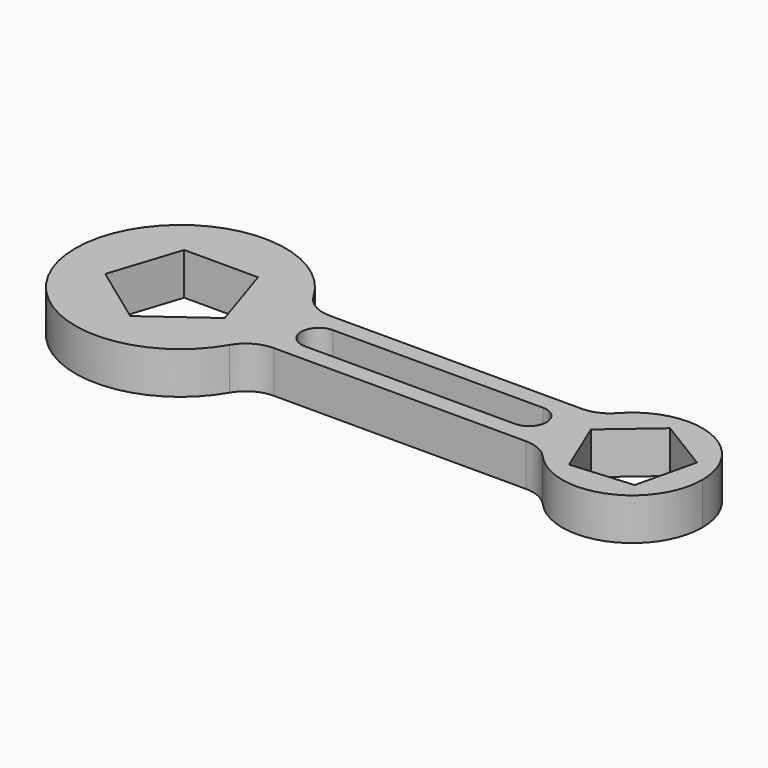
from build123d import *

# Parameters (mm, degrees)
F1_DEPTH = 12
F3_DEPTH = 12
F5_DEPTH = 12
F6_R     = 10


with BuildPart() as f1:
    # F0 (on Top) → F1 (new body)
    with BuildSketch(Plane.XY):
        with BuildLine():
            ThreePointArc((-36.2157287525, 10), (-94.5, 0), (-36.2157287525, -10))
            Line((-36.2157287525, -10), (-64.5, -10))
            Line((-64.5, -10), (-64.5, 10))
            Line((-64.5, 10), (-36.2157287525, 10))
        make_face()
        with BuildLine():
            Line((-36.2157287525, -10), (47.1794919243, -10))
            ThreePointArc((47.1794919243, -10), (44.5, 0), (47.1794919243, 10))
            Line((47.1794919243, 10), (-36.2157287525, 10))
            ThreePointArc((-36.2157287525, 10), (-34.9320432104, 5.0730593618), (-34.5, 0))
            ThreePointArc((-34.5, 0), (-34.9320432104, -5.0730593618), (-36.2157287525, -10))
        make_face()
        with BuildLine():
            Line((-64.5, -10), (-36.2157287525, -10))
            ThreePointArc((-36.2157287525, -10), (-34.9320432104, -5.0730593618), (-34.5, 0))
            ThreePointArc((-34.5, 0), (-34.9320432104, 5.0730593618), (-36.2157287525, 10))
            Line((-36.2157287525, 10), (-64.5, 10))
            Line((-64.5, 10), (-64.5, -10))
        make_face()
        with BuildLine():
            Line((47.1794919243, -10), (64.5, -10))
            Line((64.5, -10), (64.5, 10))
            Line((64.5, 10), (47.1794919243, 10))
            ThreePointArc((47.1794919243, 10), (44.5, 0), (47.1794919243, -10))
        make_face()
        with BuildLine():
            Line((64.5, 10), (64.5, -10))
            Line((64.5, -10), (47.1794919243, -10))
            ThreePointArc((47.1794919243, -10), (69.6763809021, -19.3185165258), (84.5, 0))
            ThreePointArc((84.5, 0), (69.6763809021, 19.3185165258), (47.1794919243, 10))
            Line((47.1794919243, 10), (64.5, 10))
        make_face()
    extrude(amount=F1_DEPTH)

    # F2 (on face) → F3 (cut)
    with BuildSketch(Plane.XY.offset(12)):
        Polygon((-64.5, -17.9213352339), (-47.4557973451, -5.5379971492), (-53.9661034481, 14.4986647661), (-75.0338965519, 14.4986647661), (-81.5442026549, -5.5379971492), align=None)
        Polygon((56.6936838798, -12.81171831), (74.2723838391, -11.3832864993), (78.3459814839, 5.7764603497), (63.2849033256, 14.9533353302), (49.9030474717, 3.4652091295), align=None)
    extrude(amount=-F3_DEPTH, mode=Mode.SUBTRACT)

    # F4 (on face) → F5 (cut, through all)
    with BuildSketch(Plane.XY.offset(12)):
        with BuildLine():
            ThreePointArc((-25, 5), (-30, 0), (-25, -5))
            Line((-25, -5), (-25, 5))
        make_face()
        with BuildLine():
            Line((-25, 5), (-25, -5))
            ThreePointArc((-25, -5), (-21.4644660941, -3.5355339059), (-20, 0))
            ThreePointArc((-20, 0), (-21.4644660941, 3.5355339059), (-25, 5))
        make_face()
        with BuildLine():
            Line((-25, -5), (35, -5))
            ThreePointArc((35, -5), (30, 0), (35, 5))
            Line((35, 5), (-25, 5))
            ThreePointArc((-25, 5), (-21.4644660941, 3.5355339059), (-20, 0))
            ThreePointArc((-20, 0), (-21.4644660941, -3.5355339059), (-25, -5))
        make_face()
        with BuildLine():
            ThreePointArc((35, 5), (30, 0), (35, -5))
            Line((35, -5), (35, 5))
        make_face()
        with BuildLine():
            Line((35, 5), (35, -5))
            ThreePointArc((35, -5), (38.5355339059, -3.5355339059), (40, 0))
            ThreePointArc((40, 0), (38.5355339059, 3.5355339059), (35, 5))
        make_face()
    extrude(amount=-F5_DEPTH, mode=Mode.SUBTRACT)

    # F6
    f6_edges = [f1.edges().sort_by_distance(p)[0] for p in [
        (-36.215729, -10, 6),
        (47.179492, -10, 6),
        (-36.215729, 10, 6),
        (47.179492, 10, 6),
    ]]
    fillet(f6_edges, radius=F6_R)


solid = f1.part
